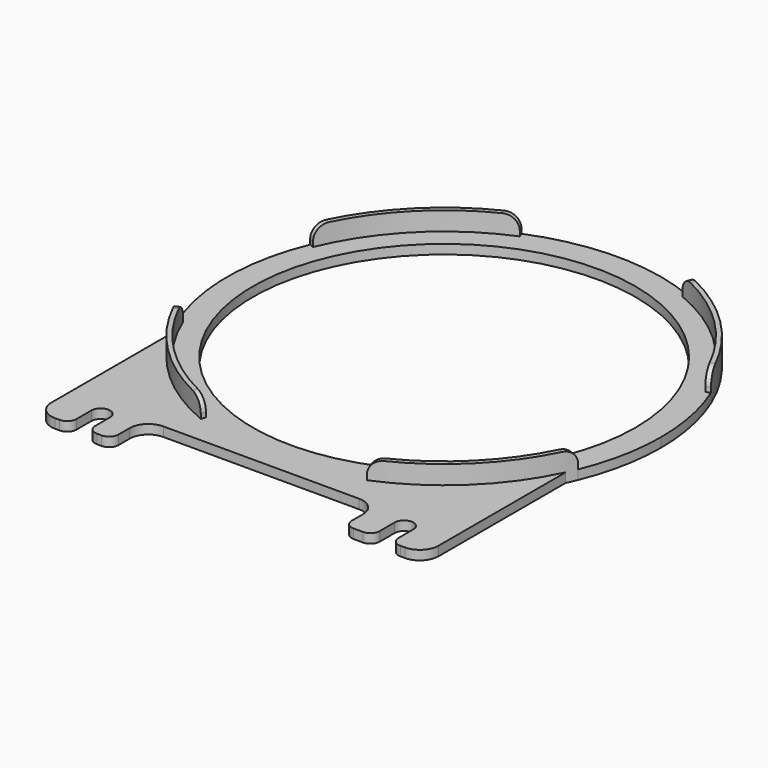
from build123d import *

# Parameters (mm, degrees)
CYLINDER002_R            = 41
CYLINDER002_DEPTH        = 10
CYLINDER001_R            = 45.5
CYLINDER001_DEPTH        = 10
CYLINDER004_R            = 46.5
CYLINDER004_DEPTH        = 2
BOX002_W                 = 50
BOX002_H                 = 9
BOX002_DEPTH             = 2
FILLET_R                 = 4
CYLINDER003_R            = 2
CYLINDER003_DEPTH        = 10
ARRAY_X_COUNT            = 2
ARRAY_X_PITCH            = 65
ARRAY_Y_COUNT            = 2
ARRAY_Y_PITCH            = 10
BOX001_W                 = 4
BOX001_H                 = 10
BOX001_DEPTH             = 10
ARRAY001_X_COUNT         = 2
ARRAY001_X_PITCH         = 65
BOX_W                    = 83
BOX_H                    = 50
BOX_DEPTH                = 2
FILLET001_R              = 4
FILLET004_R              = 2
CYLINDER_W               = 46.5
CYLINDER_H               = 6
CYLINDER_ANGLE           = 45
FILLET003_R              = 3
ARRAY002_COUNT           = 4
ARRAY002_PLACEMENT_ANGLE = 22.5


with BuildPart() as hole_cylinder:
    # Cylinder002 → Cylinder002 (new body)
    with BuildSketch(Plane.XY):
        Circle(CYLINDER002_R)
    extrude(amount=CYLINDER002_DEPTH)


with BuildPart() as extract_fusion:
    # Cylinder001 → Cylinder001 (new body)
    with BuildSketch(Plane.XY.offset(2)):
        Circle(CYLINDER001_R)
    extrude(amount=CYLINDER001_DEPTH)

    # Fusion001: union hole cylinder
    add(hole_cylinder.part)


with BuildPart() as outer_cylinder:
    # Cylinder004 → Cylinder004 (new body)
    with BuildSketch(Plane.XY):
        Circle(CYLINDER004_R)
    extrude(amount=CYLINDER004_DEPTH)


with BuildPart() as fillet_body:
    # Box002 → Box002 (new body)
    with BuildSketch(Plane(origin=(-25, -58, 0), x_dir=(1, 0, 0), z_dir=(0, 0, 1))):
        with Locations((25, 4.5)):
            Rectangle(BOX002_W, BOX002_H)
    extrude(amount=BOX002_DEPTH)

    # Fillet
    fillet_edges = [fillet_body.edges().sort_by_distance(p)[0] for p in [
        (-25, -49, 1),
        (25, -49, 1),
    ]]
    fillet(fillet_edges, radius=FILLET_R)


with BuildPart() as hole_array:
    # Cylinder003 → Cylinder003 (new body)
    with BuildSketch(Plane.XY):
        Circle(CYLINDER003_R)
    extrude(amount=CYLINDER003_DEPTH)

    # Array X: hole array ×2


with BuildPart() as hole_array_1:
    add(hole_array.part)
    with Locations(*[(i * ARRAY_X_PITCH, 0, 0) for i in range(1, ARRAY_X_COUNT)]):
        add(hole_array.part)

    # Array Y: hole array ×2


with BuildPart() as hole_array_2:
    add(hole_array_1.part)
    with Locations(*[(0, i * ARRAY_Y_PITCH, 0) for i in range(1, ARRAY_Y_COUNT)]):
        add(hole_array_1.part)


with BuildPart() as fusion003:
    # Box001 → Box001 (new body)
    with BuildSketch(Plane(origin=(-2, 0, 0), x_dir=(1, 0, 0), z_dir=(0, 0, 1))):
        with Locations((2, 5)):
            Rectangle(BOX001_W, BOX001_H)
    extrude(amount=BOX001_DEPTH)

    # Array001 X: Fusion003 ×2


with BuildPart() as fusion003_1:
    add(fusion003.part)
    with Locations(*[(i * ARRAY001_X_PITCH, 0, 0) for i in range(1, ARRAY001_X_COUNT)]):
        add(fusion003.part)

    # Fusion002: union hole array
    add(hole_array_2.part)


with BuildPart() as fusion003_2:
    # Fusion002 placement: moved
    add(fusion003_1.part.moved(Location((-32, -62, 0))))

    # Fusion003: union Fillet body
    add(fillet_body.part)


with BuildPart() as fillet004:
    # Box → Box (new body)
    with BuildSketch(Plane(origin=(-41, -58, 0), x_dir=(1, 0, 0), z_dir=(0, 0, 1))):
        with Locations((41.5, 25)):
            Rectangle(BOX_W, BOX_H)
    extrude(amount=BOX_DEPTH)

    # Fillet001
    fillet001_edges = [fillet004.edges().sort_by_distance(p)[0] for p in [
        (-41, -58, 1),
        (42, -58, 1),
    ]]
    fillet(fillet001_edges, radius=FILLET001_R)

    # Cut001: cut Fusion003
    add(fusion003_2.part, mode=Mode.SUBTRACT)

    # Fillet004
    fillet004_edges = [fillet004.edges().sort_by_distance(p)[0] for p in [
        (35, -58, 1),
        (31, -58, 1),
        (25, -58, 1),
        (-25, -58, 1),
        (-30, -58, 1),
        (-34, -58, 1),
    ]]
    fillet(fillet004_edges, radius=FILLET004_R)


with BuildPart() as obj1:
    # Cylinder → Cylinder (revolve)
    with BuildSketch(Plane.XZ):
        with Locations((23.25, 3)):
            Rectangle(CYLINDER_W, CYLINDER_H)
    revolve(axis=Axis((0, 0, 0), (0, 0, 1)), revolution_arc=CYLINDER_ANGLE)

    # Fillet003
    fillet003_edges = [obj1.edges().sort_by_distance(p)[0] for p in [
        (23.25, 0, 6),
        (16.440233, 16.440233, 6),
    ]]
    fillet(fillet003_edges, radius=FILLET003_R)

    # Array002: obj1 ×4 about axis
    array002_axis = Axis((0, 0, 0), (0, 0, 1))


with BuildPart() as obj1_1:
    add(obj1.part)
    for i in range(1, ARRAY002_COUNT):
        add(obj1.part.rotate(array002_axis, i * 360 / ARRAY002_COUNT))


with BuildPart() as obj1_2:
    # Array002 placement: moved
    add(obj1_1.part.rotate(Axis((0, 0, 0), (0, 0, 1)), ARRAY002_PLACEMENT_ANGLE))

    # Fusion: union outer cylinder, Fillet004
    add(outer_cylinder.part)
    add(fillet004.part)

    # Cut: cut extract fusion
    add(extract_fusion.part, mode=Mode.SUBTRACT)


solid = obj1_2.part
